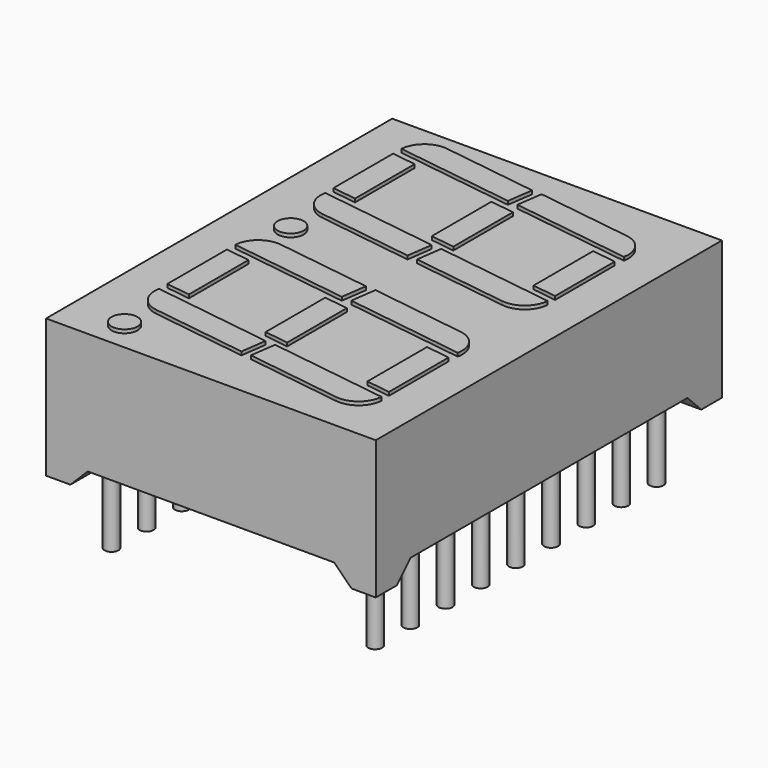
from build123d import *

# Parameters (mm, degrees)
CYLINDER_R             = 0.4
CYLINDER_DEPTH         = 10
CYLINDER001_R          = 0.4
CYLINDER001_DEPTH      = 10
CYLINDER002_R          = 0.4
CYLINDER002_DEPTH      = 10
CYLINDER003_R          = 0.4
CYLINDER003_DEPTH      = 10
CYLINDER004_R          = 0.4
CYLINDER004_DEPTH      = 10
CYLINDER005_R          = 0.4
CYLINDER005_DEPTH      = 10
CYLINDER006_R          = 0.4
CYLINDER006_DEPTH      = 10
CYLINDER007_R          = 0.4
CYLINDER007_DEPTH      = 10
CYLINDER008_R          = 0.4
CYLINDER008_DEPTH      = 10
CYLINDER009_R          = 0.4
CYLINDER009_DEPTH      = 10
CYLINDER010_R          = 0.4
CYLINDER010_DEPTH      = 10
CYLINDER011_R          = 0.4
CYLINDER011_DEPTH      = 10
CYLINDER012_R          = 0.4
CYLINDER012_DEPTH      = 10
CYLINDER013_R          = 0.4
CYLINDER013_DEPTH      = 10
CYLINDER014_R          = 0.4
CYLINDER014_DEPTH      = 10
CYLINDER015_R          = 0.4
CYLINDER015_DEPTH      = 10
CYLINDER016_R          = 0.4
CYLINDER016_DEPTH      = 10
CYLINDER017_R          = 0.4
CYLINDER017_DEPTH      = 10
BOX001_W               = 21
BOX001_H               = 22
BOX001_DEPTH           = 2
CHAMFER002_SIZE        = 1
CHAMFER003_SIZE        = 1
BOX_W                  = 16.24
BOX_H                  = 29
BOX_DEPTH              = 2
CHAMFER_SIZE           = 1
CHAMFER001_SIZE        = 1
SKETCH_W               = 19.05
SKETCH_H               = 25
PAD_DEPTH              = 8
BOX003_W               = 7
BOX003_H               = 1.5
BOX003_DEPTH           = 2
BOX003_PLACEMENT_ANGLE = -8
FILLET003_R            = 1.4
BOX002_W               = 7
BOX002_H               = 1.5
BOX002_DEPTH           = 2
BOX002_PLACEMENT_ANGLE = -8
FILLET_R               = 1.4
BOX004_W               = 7
BOX004_H               = 1.5
BOX004_DEPTH           = 2
BOX004_PLACEMENT_ANGLE = -8
FILLET002_R            = 1.4
CYLINDER018_R          = 0.75
CYLINDER018_DEPTH      = 2
BOX014_W               = 7
BOX014_H               = 1.4
BOX014_DEPTH           = 2
BOX014_PLACEMENT_ANGLE = -8
BOX013_W               = 7
BOX013_H               = 1.4
BOX013_DEPTH           = 2
BOX013_PLACEMENT_ANGLE = -8
BOX012_W               = 1.4
BOX012_H               = 4.5
BOX012_DEPTH           = 2
BOX005_W               = 7
BOX005_H               = 1.5
BOX005_DEPTH           = 2
BOX005_PLACEMENT_ANGLE = -8
FILLET001_R            = 1.4
BOX011_W               = 7
BOX011_H               = 1.4
BOX011_DEPTH           = 2
BOX011_PLACEMENT_ANGLE = -8
BOX010_W               = 7
BOX010_H               = 1.4
BOX010_DEPTH           = 2
BOX010_PLACEMENT_ANGLE = -8
BOX009_W               = 1.4
BOX009_H               = 4.5
BOX009_DEPTH           = 2
BOX008_W               = 7
BOX008_H               = 1.4
BOX008_DEPTH           = 2
BOX008_PLACEMENT_ANGLE = -8
BOX007_W               = 7
BOX007_H               = 1.4
BOX007_DEPTH           = 2
BOX007_PLACEMENT_ANGLE = -8
BOX006_W               = 1.4
BOX006_H               = 4.5
BOX006_DEPTH           = 2
BOX016_W               = 7
BOX016_H               = 1.5
BOX016_DEPTH           = 2
BOX016_PLACEMENT_ANGLE = -8
FILLET007_R            = 1.4
BOX015_W               = 7
BOX015_H               = 1.5
BOX015_DEPTH           = 2
BOX015_PLACEMENT_ANGLE = -8
FILLET004_R            = 1.4
BOX017_W               = 7
BOX017_H               = 1.5
BOX017_DEPTH           = 2
BOX017_PLACEMENT_ANGLE = -8
FILLET006_R            = 1.4
CYLINDER019_R          = 0.75
CYLINDER019_DEPTH      = 2
BOX027_W               = 7
BOX027_H               = 1.4
BOX027_DEPTH           = 2
BOX027_PLACEMENT_ANGLE = -8
BOX026_W               = 7
BOX026_H               = 1.4
BOX026_DEPTH           = 2
BOX026_PLACEMENT_ANGLE = -8
BOX025_W               = 1.4
BOX025_H               = 4.5
BOX025_DEPTH           = 2
BOX018_W               = 7
BOX018_H               = 1.5
BOX018_DEPTH           = 2
BOX018_PLACEMENT_ANGLE = -8
FILLET005_R            = 1.4
BOX024_W               = 7
BOX024_H               = 1.4
BOX024_DEPTH           = 2
BOX024_PLACEMENT_ANGLE = -8
BOX023_W               = 7
BOX023_H               = 1.4
BOX023_DEPTH           = 2
BOX023_PLACEMENT_ANGLE = -8
BOX022_W               = 1.4
BOX022_H               = 4.5
BOX022_DEPTH           = 2
BOX021_W               = 7
BOX021_H               = 1.4
BOX021_DEPTH           = 2
BOX021_PLACEMENT_ANGLE = -8
BOX020_W               = 7
BOX020_H               = 1.4
BOX020_DEPTH           = 2
BOX020_PLACEMENT_ANGLE = -8
BOX019_W               = 1.4
BOX019_H               = 4.5
BOX019_DEPTH           = 2


with BuildPart() as pin001:
    # Cylinder → Cylinder (new body)
    with BuildSketch(Plane.XY.offset(-4)):
        Circle(CYLINDER_R)
    extrude(amount=CYLINDER_DEPTH)


with BuildPart() as pin002:
    # Cylinder001 → Cylinder001 (new body)
    with BuildSketch(Plane(origin=(0, -2.54, -4), x_dir=(1, 0, 0), z_dir=(0, 0, 1))):
        Circle(CYLINDER001_R)
    extrude(amount=CYLINDER001_DEPTH)


with BuildPart() as pin003:
    # Cylinder002 → Cylinder002 (new body)
    with BuildSketch(Plane(origin=(0, -5.08, -4), x_dir=(1, 0, 0), z_dir=(0, 0, 1))):
        Circle(CYLINDER002_R)
    extrude(amount=CYLINDER002_DEPTH)


with BuildPart() as pin004:
    # Cylinder003 → Cylinder003 (new body)
    with BuildSketch(Plane(origin=(0, -7.62, -4), x_dir=(1, 0, 0), z_dir=(0, 0, 1))):
        Circle(CYLINDER003_R)
    extrude(amount=CYLINDER003_DEPTH)


with BuildPart() as pin005:
    # Cylinder004 → Cylinder004 (new body)
    with BuildSketch(Plane(origin=(0, -10.16, -4), x_dir=(1, 0, 0), z_dir=(0, 0, 1))):
        Circle(CYLINDER004_R)
    extrude(amount=CYLINDER004_DEPTH)


with BuildPart() as pin006:
    # Cylinder005 → Cylinder005 (new body)
    with BuildSketch(Plane(origin=(0, -12.7, -4), x_dir=(1, 0, 0), z_dir=(0, 0, 1))):
        Circle(CYLINDER005_R)
    extrude(amount=CYLINDER005_DEPTH)


with BuildPart() as pin007:
    # Cylinder006 → Cylinder006 (new body)
    with BuildSketch(Plane(origin=(0, -15.24, -4), x_dir=(1, 0, 0), z_dir=(0, 0, 1))):
        Circle(CYLINDER006_R)
    extrude(amount=CYLINDER006_DEPTH)


with BuildPart() as pin008:
    # Cylinder007 → Cylinder007 (new body)
    with BuildSketch(Plane(origin=(0, -17.78, -4), x_dir=(1, 0, 0), z_dir=(0, 0, 1))):
        Circle(CYLINDER007_R)
    extrude(amount=CYLINDER007_DEPTH)


with BuildPart() as pin009:
    # Cylinder008 → Cylinder008 (new body)
    with BuildSketch(Plane(origin=(0, -20.32, -4), x_dir=(1, 0, 0), z_dir=(0, 0, 1))):
        Circle(CYLINDER008_R)
    extrude(amount=CYLINDER008_DEPTH)


with BuildPart() as pin010:
    # Cylinder009 → Cylinder009 (new body)
    with BuildSketch(Plane(origin=(15.24, 0, -4), x_dir=(1, 0, 0), z_dir=(0, 0, 1))):
        Circle(CYLINDER009_R)
    extrude(amount=CYLINDER009_DEPTH)


with BuildPart() as pin011:
    # Cylinder010 → Cylinder010 (new body)
    with BuildSketch(Plane(origin=(15.24, -2.54, -4), x_dir=(1, 0, 0), z_dir=(0, 0, 1))):
        Circle(CYLINDER010_R)
    extrude(amount=CYLINDER010_DEPTH)


with BuildPart() as pin012:
    # Cylinder011 → Cylinder011 (new body)
    with BuildSketch(Plane(origin=(15.24, -5.08, -4), x_dir=(1, 0, 0), z_dir=(0, 0, 1))):
        Circle(CYLINDER011_R)
    extrude(amount=CYLINDER011_DEPTH)


with BuildPart() as pin013:
    # Cylinder012 → Cylinder012 (new body)
    with BuildSketch(Plane(origin=(15.24, -7.62, -4), x_dir=(1, 0, 0), z_dir=(0, 0, 1))):
        Circle(CYLINDER012_R)
    extrude(amount=CYLINDER012_DEPTH)


with BuildPart() as pin014:
    # Cylinder013 → Cylinder013 (new body)
    with BuildSketch(Plane(origin=(15.24, -10.16, -4), x_dir=(1, 0, 0), z_dir=(0, 0, 1))):
        Circle(CYLINDER013_R)
    extrude(amount=CYLINDER013_DEPTH)


with BuildPart() as pin015:
    # Cylinder014 → Cylinder014 (new body)
    with BuildSketch(Plane(origin=(15.24, -12.7, -4), x_dir=(1, 0, 0), z_dir=(0, 0, 1))):
        Circle(CYLINDER014_R)
    extrude(amount=CYLINDER014_DEPTH)


with BuildPart() as pin016:
    # Cylinder015 → Cylinder015 (new body)
    with BuildSketch(Plane(origin=(15.24, -15.24, -4), x_dir=(1, 0, 0), z_dir=(0, 0, 1))):
        Circle(CYLINDER015_R)
    extrude(amount=CYLINDER015_DEPTH)


with BuildPart() as pin017:
    # Cylinder016 → Cylinder016 (new body)
    with BuildSketch(Plane(origin=(15.24, -17.78, -4), x_dir=(1, 0, 0), z_dir=(0, 0, 1))):
        Circle(CYLINDER016_R)
    extrude(amount=CYLINDER016_DEPTH)


with BuildPart() as pin018:
    # Cylinder017 → Cylinder017 (new body)
    with BuildSketch(Plane(origin=(15.24, -20.32, -4), x_dir=(1, 0, 0), z_dir=(0, 0, 1))):
        Circle(CYLINDER017_R)
    extrude(amount=CYLINDER017_DEPTH)


with BuildPart() as chamfer003:
    # Box001 → Box001 (new body)
    with BuildSketch(Plane(origin=(-3, -21.15, -1), x_dir=(1, 0, 0), z_dir=(0, 0, 1))):
        with Locations((10.5, 11)):
            Rectangle(BOX001_W, BOX001_H)
    extrude(amount=BOX001_DEPTH)

    # Chamfer002
    chamfer002_edges = [chamfer003.edges().sort_by_distance(p)[0] for p in [
        (7.5, -21.15, 1),
    ]]
    chamfer(chamfer002_edges, length=CHAMFER002_SIZE)

    # Chamfer003
    chamfer003_edges = [chamfer003.edges().sort_by_distance(p)[0] for p in [
        (7.5, 0.85, 1),
    ]]
    chamfer(chamfer003_edges, length=CHAMFER003_SIZE)


with BuildPart() as chamfer001:
    # Box → Box (new body)
    with BuildSketch(Plane(origin=(-0.5, -25, -1), x_dir=(1, 0, 0), z_dir=(0, 0, 1))):
        with Locations((8.12, 14.5)):
            Rectangle(BOX_W, BOX_H)
    extrude(amount=BOX_DEPTH)

    # Chamfer
    chamfer_edges = [chamfer001.edges().sort_by_distance(p)[0] for p in [
        (15.74, -10.5, 1),
    ]]
    chamfer(chamfer_edges, length=CHAMFER_SIZE)

    # Chamfer001
    chamfer001_edges = [chamfer001.edges().sort_by_distance(p)[0] for p in [
        (-0.5, -10.5, 1),
    ]]
    chamfer(chamfer001_edges, length=CHAMFER001_SIZE)


with BuildPart() as cut001:
    # Sketch → Pad (new body)
    with BuildSketch(Plane.XY):
        with Locations((7.62, -10.16)):
            Rectangle(SKETCH_W, SKETCH_H)
    extrude(amount=PAD_DEPTH)

    # Cut: cut Chamfer001
    add(chamfer001.part, mode=Mode.SUBTRACT)

    # Cut001: cut Chamfer003
    add(chamfer003.part, mode=Mode.SUBTRACT)


with BuildPart() as fillet003:
    # Box003 → Box003 (new body)
    with BuildSketch(Plane.XY):
        with Locations((3.5, 0.75)):
            Rectangle(BOX003_W, BOX003_H)
    extrude(amount=BOX003_DEPTH)


with BuildPart() as fillet003_1:
    # Box003 placement: moved
    add(fillet003.part.moved(Location((8.8, 7, 6.2))).rotate(Axis((8.8, 7, 6.2), (0, 0, 1)), BOX003_PLACEMENT_ANGLE))

    # Fillet003
    fillet003_edges = [fillet003_1.edges().sort_by_distance(p)[0] for p in [
        (15.731876, 6.025788, 7.2),
    ]]
    fillet(fillet003_edges, radius=FILLET003_R)


with BuildPart() as fillet003_2:
    # Fillet003 placement: moved
    add(fillet003_1.part.moved(Location((-0.5, 0, 0))))


with BuildPart() as fillet_body:
    # Box002 → Box002 (new body)
    with BuildSketch(Plane.XY):
        with Locations((3.5, 0.75)):
            Rectangle(BOX002_W, BOX002_H)
    extrude(amount=BOX002_DEPTH)


with BuildPart() as fillet_body_1:
    # Box002 placement: moved
    add(fillet_body.part.moved(Location((-0.2, 8, 6.2))).rotate(Axis((-0.2, 8, 6.2), (0, 0, 1)), BOX002_PLACEMENT_ANGLE))

    # Fillet
    fillet_edges = [fillet_body_1.edges().sort_by_distance(p)[0] for p in [
        (-0.2, 8, 7.2),
    ]]
    fillet(fillet_edges, radius=FILLET_R)


with BuildPart() as fillet_body_2:
    # Fillet placement: moved
    add(fillet_body_1.part.moved(Location((1, 0, 0))))


with BuildPart() as fillet002:
    # Box004 → Box004 (new body)
    with BuildSketch(Plane.XY):
        with Locations((3.5, 0.75)):
            Rectangle(BOX004_W, BOX004_H)
    extrude(amount=BOX004_DEPTH)


with BuildPart() as fillet002_1:
    # Box004 placement: moved
    add(fillet002.part.moved(Location((9, 14, 6.2))).rotate(Axis((9, 14, 6.2), (0, 0, 1)), BOX004_PLACEMENT_ANGLE))

    # Fillet002
    fillet002_edges = [fillet002_1.edges().sort_by_distance(p)[0] for p in [
        (16.140636, 14.51119, 7.2),
    ]]
    fillet(fillet002_edges, radius=FILLET002_R)


with BuildPart() as fillet002_2:
    # Fillet002 placement: moved
    add(fillet002_1.part.moved(Location((-0.5, 0, 0))))


with BuildPart() as cylinder018:
    # Cylinder018 → Cylinder018 (new body)
    with BuildSketch(Plane(origin=(1.8, 6, 6.2), x_dir=(1, 0, 0), z_dir=(0, 0, 1))):
        Circle(CYLINDER018_R)
    extrude(amount=CYLINDER018_DEPTH)


with BuildPart() as kub014:
    # Box014 → Box014 (new body)
    with BuildSketch(Plane.XY):
        with Locations((3.5, 0.7)):
            Rectangle(BOX014_W, BOX014_H)
    extrude(amount=BOX014_DEPTH)


with BuildPart() as kub014_1:
    # Box014 placement: moved
    add(kub014.part.moved(Location((-10, 9.2, 6.2))).rotate(Axis((-10, 9.2, 6.2), (0, 0, 1)), BOX014_PLACEMENT_ANGLE))


with BuildPart() as kub013:
    # Box013 → Box013 (new body)
    with BuildSketch(Plane.XY):
        with Locations((3.5, 0.7)):
            Rectangle(BOX013_W, BOX013_H)
    extrude(amount=BOX013_DEPTH)


with BuildPart() as kub013_1:
    # Box013 placement: moved
    add(kub013.part.moved(Location((-9, 14.78, 6.2))).rotate(Axis((-9, 14.78, 6.2), (0, 0, 1)), BOX013_PLACEMENT_ANGLE))


with BuildPart() as cut007:
    # Box012 → Box012 (new body)
    with BuildSketch(Plane(origin=(-7, 10, 6.2), x_dir=(1, 0, 0), z_dir=(0, 0, 1))):
        with Locations((0.7, 2.25)):
            Rectangle(BOX012_W, BOX012_H)
    extrude(amount=BOX012_DEPTH)

    # Cut006: cut Kub013
    add(kub013_1.part, mode=Mode.SUBTRACT)

    # Cut007: cut Kub014
    add(kub014_1.part, mode=Mode.SUBTRACT)


with BuildPart() as cut007_1:
    # Cut007 placement: moved
    add(cut007.part.moved(Location((21, -1.9, 0))))


with BuildPart() as fillet001:
    # Box005 → Box005 (new body)
    with BuildSketch(Plane.XY):
        with Locations((3.5, 0.75)):
            Rectangle(BOX005_W, BOX005_H)
    extrude(amount=BOX005_DEPTH)


with BuildPart() as fillet001_1:
    # Box005 placement: moved
    add(fillet001.part.moved(Location((0, 15, 6.2))).rotate(Axis((0, 15, 6.2), (0, 0, 1)), BOX005_PLACEMENT_ANGLE))

    # Fillet001
    fillet001_edges = [fillet001_1.edges().sort_by_distance(p)[0] for p in [
        (0.20876, 16.485402, 7.2),
    ]]
    fillet(fillet001_edges, radius=FILLET001_R)


with BuildPart() as fillet001_2:
    # Fillet001 placement: moved
    add(fillet001_1.part.moved(Location((1, 0, 0))))


with BuildPart() as kub011:
    # Box011 → Box011 (new body)
    with BuildSketch(Plane.XY):
        with Locations((3.5, 0.7)):
            Rectangle(BOX011_W, BOX011_H)
    extrude(amount=BOX011_DEPTH)


with BuildPart() as kub011_1:
    # Box011 placement: moved
    add(kub011.part.moved(Location((-10, 9.2, 6.2))).rotate(Axis((-10, 9.2, 6.2), (0, 0, 1)), BOX011_PLACEMENT_ANGLE))


with BuildPart() as kub010:
    # Box010 → Box010 (new body)
    with BuildSketch(Plane.XY):
        with Locations((3.5, 0.7)):
            Rectangle(BOX010_W, BOX010_H)
    extrude(amount=BOX010_DEPTH)


with BuildPart() as kub010_1:
    # Box010 placement: moved
    add(kub010.part.moved(Location((-9, 14.78, 6.2))).rotate(Axis((-9, 14.78, 6.2), (0, 0, 1)), BOX010_PLACEMENT_ANGLE))


with BuildPart() as cut005:
    # Box009 → Box009 (new body)
    with BuildSketch(Plane(origin=(-7, 10, 6.2), x_dir=(1, 0, 0), z_dir=(0, 0, 1))):
        with Locations((0.7, 2.25)):
            Rectangle(BOX009_W, BOX009_H)
    extrude(amount=BOX009_DEPTH)

    # Cut004: cut Kub010
    add(kub010_1.part, mode=Mode.SUBTRACT)

    # Cut005: cut Kub011
    add(kub011_1.part, mode=Mode.SUBTRACT)


with BuildPart() as cut005_1:
    # Cut005 placement: moved
    add(cut005.part.moved(Location((14.4, -1, 0))))


with BuildPart() as kub008:
    # Box008 → Box008 (new body)
    with BuildSketch(Plane.XY):
        with Locations((3.5, 0.7)):
            Rectangle(BOX008_W, BOX008_H)
    extrude(amount=BOX008_DEPTH)


with BuildPart() as kub008_1:
    # Box008 placement: moved
    add(kub008.part.moved(Location((-10, 9.2, 6.2))).rotate(Axis((-10, 9.2, 6.2), (0, 0, 1)), BOX008_PLACEMENT_ANGLE))


with BuildPart() as kub007:
    # Box007 → Box007 (new body)
    with BuildSketch(Plane.XY):
        with Locations((3.5, 0.7)):
            Rectangle(BOX007_W, BOX007_H)
    extrude(amount=BOX007_DEPTH)


with BuildPart() as kub007_1:
    # Box007 placement: moved
    add(kub007.part.moved(Location((-9, 14.78, 6.2))).rotate(Axis((-9, 14.78, 6.2), (0, 0, 1)), BOX007_PLACEMENT_ANGLE))


with BuildPart() as fusion:
    # Box006 → Box006 (new body)
    with BuildSketch(Plane(origin=(-7, 10, 6.2), x_dir=(1, 0, 0), z_dir=(0, 0, 1))):
        with Locations((0.7, 2.25)):
            Rectangle(BOX006_W, BOX006_H)
    extrude(amount=BOX006_DEPTH)

    # Cut002: cut Kub007
    add(kub007_1.part, mode=Mode.SUBTRACT)

    # Cut003: cut Kub008
    add(kub008_1.part, mode=Mode.SUBTRACT)


with BuildPart() as fusion_1:
    # Cut003 placement: moved
    add(fusion.part.moved(Location((8, -0.1, 0))))

    # Fusion: union Fillet003, Fillet body, Fillet002, Cylinder018, Cut007, Fillet001, Cut005
    add(fillet003_2.part)
    add(fillet_body_2.part)
    add(fillet002_2.part)
    add(cylinder018.part)
    add(cut007_1.part)
    add(fillet001_2.part)
    add(cut005_1.part)


with BuildPart() as fusion_2:
    # Fusion placement: moved
    add(fusion_1.part.moved(Location((-0.5, -15, 0))))


with BuildPart() as fillet007:
    # Box016 → Box016 (new body)
    with BuildSketch(Plane.XY):
        with Locations((3.5, 0.75)):
            Rectangle(BOX016_W, BOX016_H)
    extrude(amount=BOX016_DEPTH)


with BuildPart() as fillet007_1:
    # Box016 placement: moved
    add(fillet007.part.moved(Location((8.8, 7, 6.2))).rotate(Axis((8.8, 7, 6.2), (0, 0, 1)), BOX016_PLACEMENT_ANGLE))

    # Fillet007
    fillet007_edges = [fillet007_1.edges().sort_by_distance(p)[0] for p in [
        (15.731876, 6.025788, 7.2),
    ]]
    fillet(fillet007_edges, radius=FILLET007_R)


with BuildPart() as fillet007_2:
    # Fillet007 placement: moved
    add(fillet007_1.part.moved(Location((-0.5, 0, 0))))


with BuildPart() as fillet004:
    # Box015 → Box015 (new body)
    with BuildSketch(Plane.XY):
        with Locations((3.5, 0.75)):
            Rectangle(BOX015_W, BOX015_H)
    extrude(amount=BOX015_DEPTH)


with BuildPart() as fillet004_1:
    # Box015 placement: moved
    add(fillet004.part.moved(Location((-0.2, 8, 6.2))).rotate(Axis((-0.2, 8, 6.2), (0, 0, 1)), BOX015_PLACEMENT_ANGLE))

    # Fillet004
    fillet004_edges = [fillet004_1.edges().sort_by_distance(p)[0] for p in [
        (-0.2, 8, 7.2),
    ]]
    fillet(fillet004_edges, radius=FILLET004_R)


with BuildPart() as fillet004_2:
    # Fillet004 placement: moved
    add(fillet004_1.part.moved(Location((1, 0, 0))))


with BuildPart() as fillet006:
    # Box017 → Box017 (new body)
    with BuildSketch(Plane.XY):
        with Locations((3.5, 0.75)):
            Rectangle(BOX017_W, BOX017_H)
    extrude(amount=BOX017_DEPTH)


with BuildPart() as fillet006_1:
    # Box017 placement: moved
    add(fillet006.part.moved(Location((9, 14, 6.2))).rotate(Axis((9, 14, 6.2), (0, 0, 1)), BOX017_PLACEMENT_ANGLE))

    # Fillet006
    fillet006_edges = [fillet006_1.edges().sort_by_distance(p)[0] for p in [
        (16.140636, 14.51119, 7.2),
    ]]
    fillet(fillet006_edges, radius=FILLET006_R)


with BuildPart() as fillet006_2:
    # Fillet006 placement: moved
    add(fillet006_1.part.moved(Location((-0.5, 0, 0))))


with BuildPart() as cylinder019:
    # Cylinder019 → Cylinder019 (new body)
    with BuildSketch(Plane(origin=(1.8, 6, 6.2), x_dir=(1, 0, 0), z_dir=(0, 0, 1))):
        Circle(CYLINDER019_R)
    extrude(amount=CYLINDER019_DEPTH)


with BuildPart() as kub027:
    # Box027 → Box027 (new body)
    with BuildSketch(Plane.XY):
        with Locations((3.5, 0.7)):
            Rectangle(BOX027_W, BOX027_H)
    extrude(amount=BOX027_DEPTH)


with BuildPart() as kub027_1:
    # Box027 placement: moved
    add(kub027.part.moved(Location((-10, 9.2, 6.2))).rotate(Axis((-10, 9.2, 6.2), (0, 0, 1)), BOX027_PLACEMENT_ANGLE))


with BuildPart() as kub026:
    # Box026 → Box026 (new body)
    with BuildSketch(Plane.XY):
        with Locations((3.5, 0.7)):
            Rectangle(BOX026_W, BOX026_H)
    extrude(amount=BOX026_DEPTH)


with BuildPart() as kub026_1:
    # Box026 placement: moved
    add(kub026.part.moved(Location((-9, 14.78, 6.2))).rotate(Axis((-9, 14.78, 6.2), (0, 0, 1)), BOX026_PLACEMENT_ANGLE))


with BuildPart() as cut013:
    # Box025 → Box025 (new body)
    with BuildSketch(Plane(origin=(-7, 10, 6.2), x_dir=(1, 0, 0), z_dir=(0, 0, 1))):
        with Locations((0.7, 2.25)):
            Rectangle(BOX025_W, BOX025_H)
    extrude(amount=BOX025_DEPTH)

    # Cut012: cut Kub026
    add(kub026_1.part, mode=Mode.SUBTRACT)

    # Cut013: cut Kub027
    add(kub027_1.part, mode=Mode.SUBTRACT)


with BuildPart() as cut013_1:
    # Cut013 placement: moved
    add(cut013.part.moved(Location((21, -1.9, 0))))


with BuildPart() as fillet005:
    # Box018 → Box018 (new body)
    with BuildSketch(Plane.XY):
        with Locations((3.5, 0.75)):
            Rectangle(BOX018_W, BOX018_H)
    extrude(amount=BOX018_DEPTH)


with BuildPart() as fillet005_1:
    # Box018 placement: moved
    add(fillet005.part.moved(Location((0, 15, 6.2))).rotate(Axis((0, 15, 6.2), (0, 0, 1)), BOX018_PLACEMENT_ANGLE))

    # Fillet005
    fillet005_edges = [fillet005_1.edges().sort_by_distance(p)[0] for p in [
        (0.20876, 16.485402, 7.2),
    ]]
    fillet(fillet005_edges, radius=FILLET005_R)


with BuildPart() as fillet005_2:
    # Fillet005 placement: moved
    add(fillet005_1.part.moved(Location((1, 0, 0))))


with BuildPart() as kub024:
    # Box024 → Box024 (new body)
    with BuildSketch(Plane.XY):
        with Locations((3.5, 0.7)):
            Rectangle(BOX024_W, BOX024_H)
    extrude(amount=BOX024_DEPTH)


with BuildPart() as kub024_1:
    # Box024 placement: moved
    add(kub024.part.moved(Location((-10, 9.2, 6.2))).rotate(Axis((-10, 9.2, 6.2), (0, 0, 1)), BOX024_PLACEMENT_ANGLE))


with BuildPart() as kub023:
    # Box023 → Box023 (new body)
    with BuildSketch(Plane.XY):
        with Locations((3.5, 0.7)):
            Rectangle(BOX023_W, BOX023_H)
    extrude(amount=BOX023_DEPTH)


with BuildPart() as kub023_1:
    # Box023 placement: moved
    add(kub023.part.moved(Location((-9, 14.78, 6.2))).rotate(Axis((-9, 14.78, 6.2), (0, 0, 1)), BOX023_PLACEMENT_ANGLE))


with BuildPart() as cut011:
    # Box022 → Box022 (new body)
    with BuildSketch(Plane(origin=(-7, 10, 6.2), x_dir=(1, 0, 0), z_dir=(0, 0, 1))):
        with Locations((0.7, 2.25)):
            Rectangle(BOX022_W, BOX022_H)
    extrude(amount=BOX022_DEPTH)

    # Cut010: cut Kub023
    add(kub023_1.part, mode=Mode.SUBTRACT)

    # Cut011: cut Kub024
    add(kub024_1.part, mode=Mode.SUBTRACT)


with BuildPart() as cut011_1:
    # Cut011 placement: moved
    add(cut011.part.moved(Location((14.4, -1, 0))))


with BuildPart() as kub021:
    # Box021 → Box021 (new body)
    with BuildSketch(Plane.XY):
        with Locations((3.5, 0.7)):
            Rectangle(BOX021_W, BOX021_H)
    extrude(amount=BOX021_DEPTH)


with BuildPart() as kub021_1:
    # Box021 placement: moved
    add(kub021.part.moved(Location((-10, 9.2, 6.2))).rotate(Axis((-10, 9.2, 6.2), (0, 0, 1)), BOX021_PLACEMENT_ANGLE))


with BuildPart() as kub020:
    # Box020 → Box020 (new body)
    with BuildSketch(Plane.XY):
        with Locations((3.5, 0.7)):
            Rectangle(BOX020_W, BOX020_H)
    extrude(amount=BOX020_DEPTH)


with BuildPart() as kub020_1:
    # Box020 placement: moved
    add(kub020.part.moved(Location((-9, 14.78, 6.2))).rotate(Axis((-9, 14.78, 6.2), (0, 0, 1)), BOX020_PLACEMENT_ANGLE))


with BuildPart() as fusion001:
    # Box019 → Box019 (new body)
    with BuildSketch(Plane(origin=(-7, 10, 6.2), x_dir=(1, 0, 0), z_dir=(0, 0, 1))):
        with Locations((0.7, 2.25)):
            Rectangle(BOX019_W, BOX019_H)
    extrude(amount=BOX019_DEPTH)

    # Cut008: cut Kub020
    add(kub020_1.part, mode=Mode.SUBTRACT)

    # Cut009: cut Kub021
    add(kub021_1.part, mode=Mode.SUBTRACT)


with BuildPart() as fusion001_1:
    # Cut009 placement: moved
    add(fusion001.part.moved(Location((8, -0.1, 0))))

    # Fusion001: union Fillet007, Fillet004, Fillet006, Cylinder019, Cut013, Fillet005, Cut011
    add(fillet007_2.part)
    add(fillet004_2.part)
    add(fillet006_2.part)
    add(cylinder019.part)
    add(cut013_1.part)
    add(fillet005_2.part)
    add(cut011_1.part)


with BuildPart() as fusion001_2:
    # Fusion001 placement: moved
    add(fusion001_1.part.moved(Location((-0.5, -27, 0))))


solid = Compound([pin001.part, pin002.part, pin003.part, pin004.part, pin005.part, pin006.part, pin007.part, pin008.part, pin009.part, pin010.part, pin011.part, pin012.part, pin013.part, pin014.part, pin015.part, pin016.part, pin017.part, pin018.part, cut001.part, fusion_2.part, fusion001_2.part])
